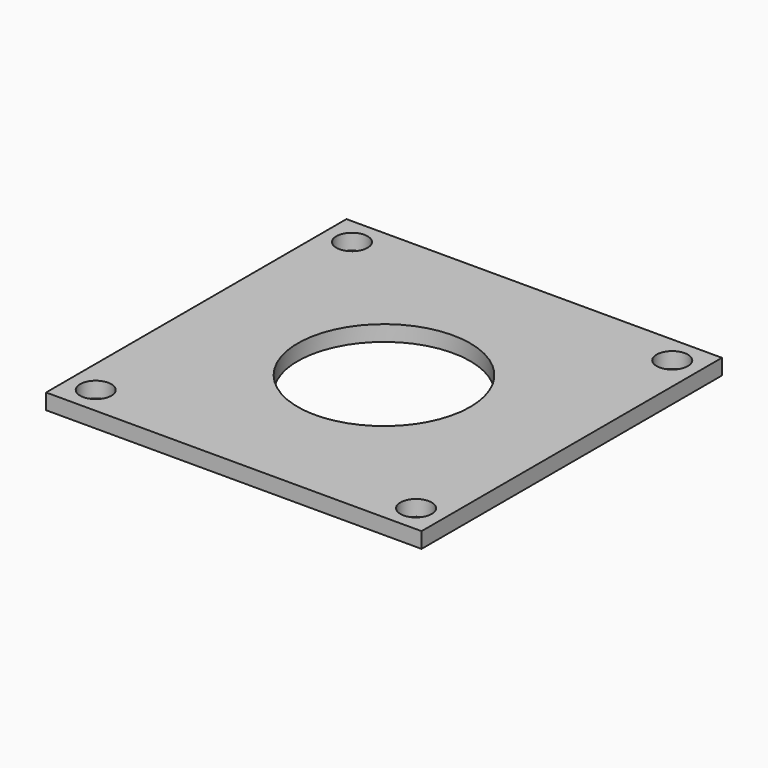
from build123d import *

# Parameters (mm, degrees)
F0_W     = 152.4
F0_H     = 152.4
F0_R     = 6.35
F0_R_2   = 35
F1_DEPTH = 3.175


with BuildPart() as f1:
    # F0 (on Top) → F1 (new body, symmetric)
    with BuildSketch(Plane.XY):
        Rectangle(F0_W, F0_H)
        with Locations((-65, -65)):
            Circle(F0_R, mode=Mode.SUBTRACT)
        with Locations((65, -65)):
            Circle(F0_R, mode=Mode.SUBTRACT)
        with Locations((-65, 65)):
            Circle(F0_R, mode=Mode.SUBTRACT)
        Circle(F0_R_2, mode=Mode.SUBTRACT)
        with Locations((65, 65)):
            Circle(F0_R, mode=Mode.SUBTRACT)
    extrude(amount=F1_DEPTH, both=True)


solid = f1.part
